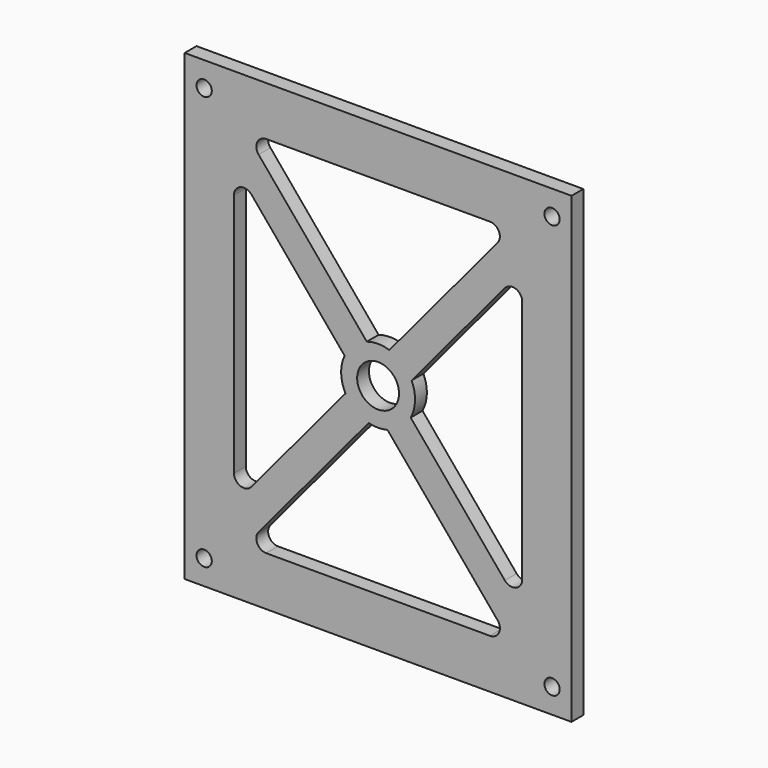
from build123d import *

# Parameters (mm, degrees)
F0_W     = 78.5
F0_H     = 94
F0_R     = 1.55
F0_R_2   = 4.25
F1_DEPTH = 3


with BuildPart() as f1:
    # F0 (on Front) → F1 (new body)
    with BuildSketch(Plane.XZ):
        with Locations((0, -0.289606)):
            Rectangle(F0_W, F0_H)
        with Locations((-35.3, -42.289606)):
            Circle(F0_R, mode=Mode.SUBTRACT)
        with Locations((35.3, -42.289606)):
            Circle(F0_R, mode=Mode.SUBTRACT)
        with BuildLine():
            Line((-24.249606, -34.007632), (-1.907053, -7.253492))
            ThreePointArc((-1.907053, -7.253492), (0, -7.5), (1.907053, -7.253492))
            Line((1.907053, -7.253492), (24.249606, -34.007632))
            ThreePointArc((24.249606, -34.007632), (24.526125, -36.13697), (22.714503, -37.289606))
            Line((22.714503, -37.289606), (-22.714503, -37.289606))
            ThreePointArc((-22.714503, -37.289606), (-24.526125, -36.13697), (-24.249606, -34.007632))
        make_face(mode=Mode.SUBTRACT)
        with BuildLine():
            Line((-29.25, -25.119712), (-29.25, 24.540499))
            ThreePointArc((-29.25, 24.540499), (-27.931833, 26.420686), (-25.714897, 25.822474))
            Line((-25.714897, 25.822474), (-6.79733, 3.169591))
            ThreePointArc((-6.79733, 3.169591), (-7.497264, -0.202557), (-6.61627, -3.531993))
            Line((-6.61627, -3.531993), (-25.714897, -26.401686))
            ThreePointArc((-25.714897, -26.401686), (-27.931833, -26.999899), (-29.25, -25.119712))
        make_face(mode=Mode.SUBTRACT)
        with Locations((-35.3, 41.710394)):
            Circle(F0_R, mode=Mode.SUBTRACT)
        Circle(F0_R_2, mode=Mode.SUBTRACT)
        with BuildLine():
            ThreePointArc((6.61627, -3.531993), (7.497264, -0.202557), (6.79733, 3.169591))
            Line((6.79733, 3.169591), (25.714897, 25.822474))
            ThreePointArc((25.714897, 25.822474), (27.931833, 26.420686), (29.25, 24.540499))
            Line((29.25, 24.540499), (29.25, -25.119712))
            ThreePointArc((29.25, -25.119712), (27.931833, -26.999899), (25.714897, -26.401686))
            Line((25.714897, -26.401686), (6.61627, -3.531993))
        make_face(mode=Mode.SUBTRACT)
        with BuildLine():
            ThreePointArc((-24.249606, 33.428419), (-24.526125, 35.557758), (-22.714503, 36.710394))
            Line((-22.714503, 36.710394), (22.714503, 36.710394))
            ThreePointArc((22.714503, 36.710394), (24.526125, 35.557758), (24.249606, 33.428419))
            Line((24.249606, 33.428419), (2.295928, 7.139938))
            ThreePointArc((2.295928, 7.139938), (0, 7.5), (-2.295928, 7.139938))
            Line((-2.295928, 7.139938), (-24.249606, 33.428419))
        make_face(mode=Mode.SUBTRACT)
        with Locations((35.3, 41.710394)):
            Circle(F0_R, mode=Mode.SUBTRACT)
    extrude(amount=F1_DEPTH)


solid = f1.part
